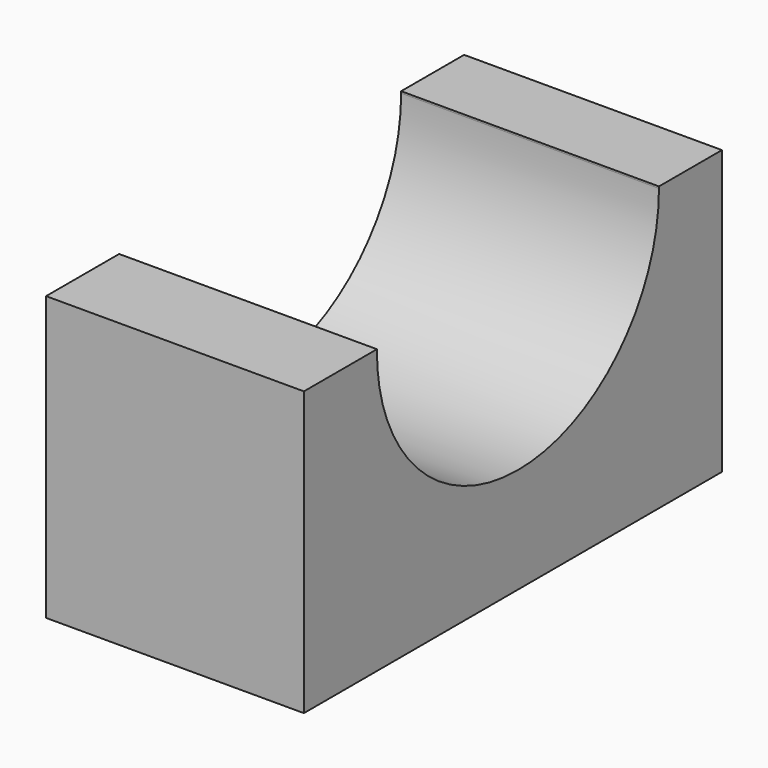
from build123d import *

# Parameters (mm, degrees)
F0_W     = 51.479302
F0_H     = 27.910465
F1_DEPTH = 25.4
F3_DEPTH = 25.4


with BuildPart() as f1:
    # F0 (on Right) → F1 (new body)
    with BuildSketch(Plane.YZ):
        with Locations((25.739651, 13.955232)):
            Rectangle(F0_W, F0_H)
    extrude(amount=F1_DEPTH)

    # F2 (on face) → F3 (cut)
    with BuildSketch(Plane.YZ.offset(25.4)):
        with BuildLine():
            ThreePointArc((8.993372, 27.910465), (26.271278, 10.366066), (43.7273, 27.733256))
            ThreePointArc((43.7273, 27.733256), (43.727074, 27.821862), (43.726396, 27.910465))
            Line((43.726396, 27.910465), (8.993372, 27.910465))
        make_face()
        with BuildLine():
            Line((8.993372, 27.910465), (43.726396, 27.910465))
            ThreePointArc((43.726396, 27.910465), (26.359884, 45.100672), (8.993372, 27.910465))
        make_face()
    extrude(amount=-F3_DEPTH, mode=Mode.SUBTRACT)


solid = f1.part
